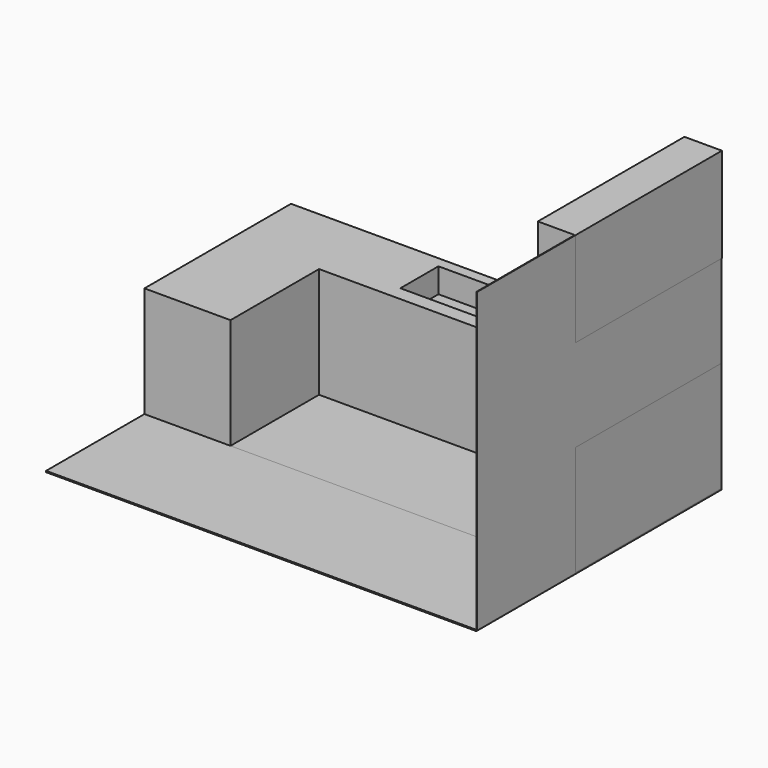
from build123d import *

# Parameters (mm, degrees)
F1_DEPTH   = 900
F2_W       = 718.055725
F2_H       = 386.645332
F3_DEPTH   = 200
F2_W_2     = 480
F2_H_2     = 1160
F4_DEPTH   = 50
F5_W       = 600
F5_H       = 850
F6_DEPTH   = 570
F7_W       = 1490
F7_H       = 750
F8_DEPTH   = 5
F9_W       = 5
F9_H       = 750
F10_DEPTH  = 700
F11_W      = 1000
F11_H      = 2420
F12_DEPTH  = 5
F13_W      = 1000
F13_H      = 10
F14_DEPTH  = 3500
F14_FACE_W = 3500
F14_FACE_H = 10
F15_DEPTH  = 1490
F16_W      = 1490
F16_H      = 770
F17_DEPTH  = 305


with BuildPart() as f1:
    # F0 (on Top) → F1 (new body)
    with BuildSketch(Plane.XY):
        Polygon((0, 0), (0, 590), (-3500, 590), (-3500, 0), (-3500, -900), (-2800, -900), (-2800, 0), (-700, 0), (-700, -900), (0, -900), align=None)
    extrude(amount=-F1_DEPTH)

    # F2 (on face) → F3 (cut)
    with BuildSketch(Plane.XY):
        with Locations((-1872.617244, 310.196631)):
            Rectangle(F2_W, F2_H)
    extrude(amount=-F3_DEPTH, mode=Mode.SUBTRACT)

    # F2 (on face) → F4 (join)
    with BuildSketch(Plane.XY):
        with Locations((-353.00524, -217.57303)):
            Rectangle(F2_W_2, F2_H_2)
    extrude(amount=F4_DEPTH)

    # F5 (on face) → F6 (cut)
    with BuildSketch(Plane.XZ):
        with Locations((-1205.54049, -475)):
            Rectangle(F5_W, F5_H)
    extrude(amount=-F6_DEPTH, mode=Mode.SUBTRACT)



with BuildPart() as f8:
    # F7 (on Right) → F8 (new body)
    with BuildSketch(Plane.YZ):
        with Locations((-158.727651, 375)):
            Rectangle(F7_W, F7_H)
    extrude(amount=F8_DEPTH)


with BuildPart() as f10:
    # F9 (on face) → F10 (new body)
    with BuildSketch(Plane(origin=(0, 0, 0), x_dir=(0, -1, 0), z_dir=(-1, 0, 0))):
        with Locations((-583.772349, 375)):
            Rectangle(F9_W, F9_H)
    extrude(amount=F10_DEPTH)


with BuildPart() as f1_1:
    add(f1.part)

    add(f8.part)  # F12 merges F8
    # F11 (on face) → F12 (join)
    with BuildSketch(Plane.YZ):
        with Locations((-1400, 310)):
            Rectangle(F11_W, F11_H)
    extrude(amount=F12_DEPTH)


with BuildPart() as f14:
    # F13 (on face) → F14 (new body)
    with BuildSketch(Plane(origin=(0, 0, 0), x_dir=(0, -1, 0), z_dir=(-1, 0, 0))):
        with Locations((1400, -905)):
            Rectangle(F13_W, F13_H)
    extrude(amount=F14_DEPTH)


with BuildPart() as f15:
    # F14_face (on face) → F15 (new body)
    with BuildSketch(Plane(origin=(-1750, -900, -905), x_dir=(-1, 0, 0), z_dir=(0, 1, 0))):
        Rectangle(F14_FACE_W, F14_FACE_H)
    extrude(amount=F15_DEPTH)


with BuildPart() as f17:
    # F16 (on face) → F17 (new body)
    with BuildSketch(Plane.YZ.offset(5)):
        with Locations((-155, 1135)):
            Rectangle(F16_W, F16_H)
    extrude(amount=-F17_DEPTH)


solid = Compound([f10.part, f1_1.part, f14.part, f15.part, f17.part])
